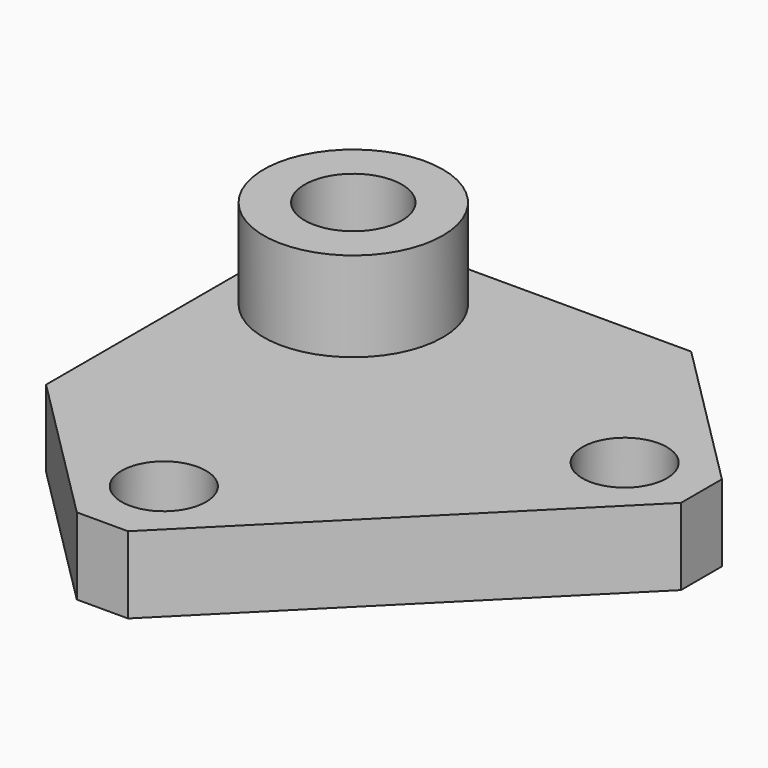
from build123d import *

# Parameters (mm, degrees)
SKETCH_R      = 1.65
SKETCH_R_2    = 1.9
PAD_DEPTH     = 3
SKETCH001_R   = 3.5
SKETCH001_R_2 = 1.9
PAD001_DEPTH  = 3.5
CHAMFER_SIZE  = 0.4


with BuildPart() as part:
    # Sketch → Pad (new body)
    with BuildSketch(Plane.XY):
        Polygon((-1, -13), (1, -13), (13, -1), (13, 1), (7, 7), (-4, 7), (-7, 4), (-7, -7), align=None)
        with Locations((0, -10)):
            Circle(SKETCH_R, mode=Mode.SUBTRACT)
        with Locations((10, 0)):
            Circle(SKETCH_R, mode=Mode.SUBTRACT)
        with Locations((-3, 3)):
            Circle(SKETCH_R_2, mode=Mode.SUBTRACT)
    extrude(amount=PAD_DEPTH)

    # Sketch001 (on Face13 of Pad) → Pad001 (join)
    with BuildSketch(Plane.XY.offset(3)):
        with Locations((-3, 3)):
            Circle(SKETCH001_R)
        with Locations((-3, 3)):
            Circle(SKETCH001_R_2, mode=Mode.SUBTRACT)
    extrude(amount=PAD001_DEPTH)

    # Chamfer
    chamfer_edges = [part.edges().sort_by_distance(p)[0] for p in [
        (-4.9, 3, 0),
    ]]
    chamfer(chamfer_edges, length=CHAMFER_SIZE)


solid = part.part
